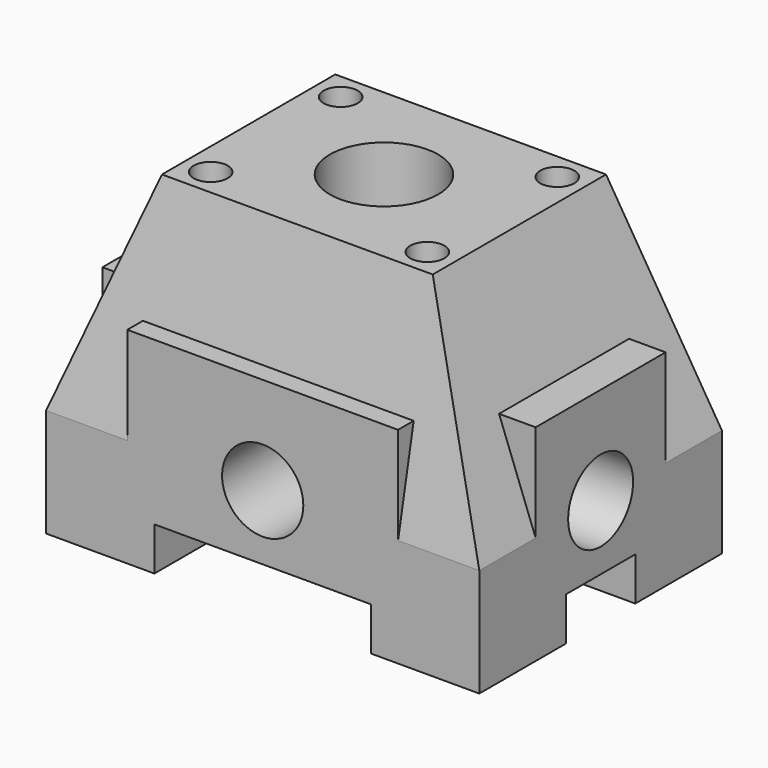
from build123d import *

# Parameters (mm, degrees)
F0_W      = 160
F0_H      = 112
F1_DEPTH  = 40
F2_W      = 80
F2_H      = 16
F3_DEPTH  = 115
F4_W      = 32
F4_H      = 16
F5_DEPTH  = 165
F6_W      = 100
F6_H      = 112
F7_DEPTH  = 36
F8_W      = 30
F8_H      = 60
F9_DEPTH  = 36
F10_W     = 30
F10_H     = 60
F11_DEPTH = 36
F14_W     = 100
F14_H     = 80
F12_W     = 160
F12_H     = 112
F16_R     = 20
F17_DEPTH = 120
F18_R     = 15
F19_DEPTH = 112
F20_R     = 15
F21_DEPTH = 160
F23_D     = 12.6
F23_DEPTH = 30
F23_TIP   = 3.7854218999


with BuildPart() as f1:
    # F0 (on Top) → F1 (new body)
    with BuildSketch(Plane.XY):
        Rectangle(F0_W, F0_H)
    extrude(amount=-F1_DEPTH)

    # F2 (on face) → F3 (cut)
    with BuildSketch(Plane.XZ.offset(56)):
        with Locations((0, -32)):
            Rectangle(F2_W, F2_H)
    extrude(amount=-F3_DEPTH, mode=Mode.SUBTRACT)

    # F4 (on face) → F5 (cut)
    with BuildSketch(Plane(origin=(-80, 0, 0), x_dir=(0, -1, 0), z_dir=(-1, 0, 0))):
        with Locations((0, -32)):
            Rectangle(F4_W, F4_H)
    extrude(amount=-F5_DEPTH, mode=Mode.SUBTRACT)

    # F6 (on face) → F7 (join)
    with BuildSketch(Plane.XY):
        Rectangle(F6_W, F6_H)
    extrude(amount=F7_DEPTH)

    # F8 (on face) → F9 (join)
    with BuildSketch(Plane.XY):
        with Locations((65, 0)):
            Rectangle(F8_W, F8_H)
    extrude(amount=F9_DEPTH)

    # F10 (on face) → F11 (join)
    with BuildSketch(Plane.XY):
        with Locations((-65, 0)):
            Rectangle(F10_W, F10_H)
    extrude(amount=F11_DEPTH)

    # F14 (on offset) → F15 section 0
    with BuildSketch(Plane.XY.offset(80)):
        Rectangle(F14_W, F14_H)
    # F12 (on Top) → F15 section 1
    with BuildSketch(Plane.XY):
        Rectangle(F12_W, F12_H)
    loft()

    # F16 (on face) → F17 (cut)
    with BuildSketch(Plane.XY.offset(80)):
        Circle(F16_R)
    extrude(amount=-F17_DEPTH, mode=Mode.SUBTRACT)

    # F18 (on face) → F19 (cut)
    with BuildSketch(Plane.XZ.offset(56)):
        Circle(F18_R)
    extrude(amount=-F19_DEPTH, mode=Mode.SUBTRACT)

    # F20 (on face) → F21 (cut)
    with BuildSketch(Plane(origin=(-80, 0, 0), x_dir=(0, -1, 0), z_dir=(-1, 0, 0))):
        Circle(F20_R)
    extrude(amount=-F21_DEPTH, mode=Mode.SUBTRACT)

    # F23
    with Locations(Plane.XY.offset(80)):
        with Locations((-40, 30), (40, 30), (40, -30), (-40, -30)):
            Hole(F23_D / 2, depth=F23_DEPTH)
            with Locations((0, 0, -(F23_DEPTH + F23_TIP / 2))):  # 118° drill point
                Cone(0, F23_D / 2, F23_TIP, mode=Mode.SUBTRACT)


solid = f1.part
